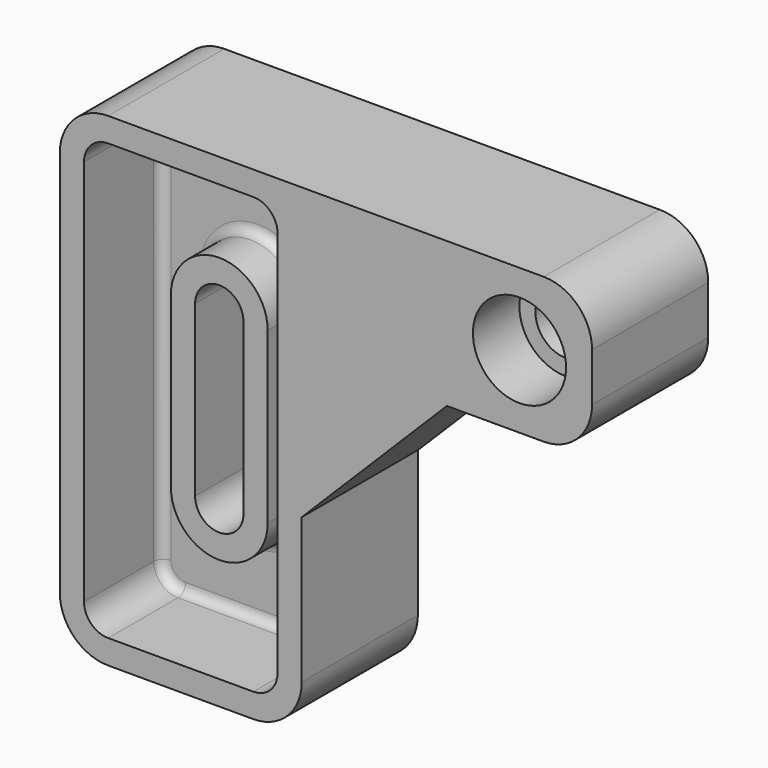
from build123d import *

# Parameters (mm, degrees)
F1_DEPTH       = 30
F3_D           = 12.6
F3_CBORE_D     = 19.25
F3_CBORE_DEPTH = 12
F5_DEPTH       = 20
F7_DEPTH       = 10
F9_DEPTH       = 51.5
F10_R          = 2


with BuildPart() as f1:
    # F0 (on Front) → F1 (new body)
    with BuildSketch(Plane.XZ):
        with BuildLine():
            Line((0, -30), (0, 0))
            Line((0, 0), (30, 30))
            Line((30, 30), (50, 30))
            ThreePointArc((50, 30), (57.0710678119, 32.9289321881), (60, 40))
            Line((60, 40), (60, 50))
            ThreePointArc((60, 50), (57.0710678119, 57.0710678119), (50, 60))
            Line((50, 60), (-40, 60))
            ThreePointArc((-40, 60), (-47.0710678119, 57.0710678119), (-50, 50))
            Line((-50, 50), (-50, -30))
            ThreePointArc((-50, -30), (-47.0710678119, -37.0710678119), (-40, -40))
            Line((-40, -40), (-10, -40))
            ThreePointArc((-10, -40), (-2.9289321881, -37.0710678119), (0, -30))
        make_face()
    extrude(amount=F1_DEPTH)

    # F3 (through all)
    with Locations(Plane.XZ.offset(30)):
        with Locations((45, 45)):
            CounterBoreHole(F3_D / 2, F3_CBORE_D / 2, F3_CBORE_DEPTH)

    # F4 (on face) → F5 (cut)
    with BuildSketch(Plane.XZ.offset(30)):
        with BuildLine():
            Line((-5.0000011261, -30), (-5.0000011261, 0))
            Line((-5.0000011261, 0), (-5.0000011261, 50))
            ThreePointArc((-5.0000011261, 50), (-6.4644668903, 53.5355331097), (-10, 54.9999988739))
            Line((-10, 54.9999988739), (-40, 54.9999988739))
            ThreePointArc((-40, 54.9999988739), (-43.5355331097, 53.5355331097), (-44.9999988739, 50))
            Line((-44.9999988739, 50), (-44.9999988739, -30))
            ThreePointArc((-44.9999988739, -30), (-43.5355331097, -33.5355331097), (-40, -34.9999988739))
            Line((-40, -34.9999988739), (-10, -34.9999988739))
            ThreePointArc((-10, -34.9999988739), (-6.4644668903, -33.5355331097), (-5.0000011261, -30))
        make_face()
    extrude(amount=-F5_DEPTH, mode=Mode.SUBTRACT)

    # F6 (on face) → F7 (join)
    with BuildSketch(Plane.XZ.offset(10)):
        with BuildLine():
            ThreePointArc((-35.0377668691, -10), (-25.0377668691, -20), (-15.0377668691, -10))
            Line((-15.0377668691, -10), (-15.0377668691, 25))
            ThreePointArc((-15.0377668691, 25), (-25.0377668691, 35), (-35.0377668691, 25))
            Line((-35.0377668691, 25), (-35.0377668691, -10))
        make_face()
    extrude(amount=F7_DEPTH)

    # F8 (on face) → F9 (cut, symmetric)
    with BuildSketch(Plane.XZ.offset(20)):
        with BuildLine():
            ThreePointArc((-30.0377668691, -10), (-25.0377668691, -15), (-20.0377668691, -10))
            Line((-20.0377668691, -10), (-20.0377668691, 25))
            ThreePointArc((-20.0377668691, 25), (-25.0377668691, 30), (-30.0377668691, 25))
            Line((-30.0377668691, 25), (-30.0377668691, -10))
        make_face()
    extrude(amount=F9_DEPTH, both=True, mode=Mode.SUBTRACT)

    # F10
    f10_edges = [f1.edges().sort_by_distance(p)[0] for p in [
        (-5.000001, -10, 10),
        (-6.464467, -10, -33.535533),
        (-6.464467, -10, 53.535533),
        (-25, -10, -34.999999),
        (-25, -10, 54.999999),
        (-43.535533, -10, -33.535533),
        (-43.535533, -10, 53.535533),
        (-44.999999, -10, 10),
        (-35.037767, -10, 7.5),
        (-25.037767, -10, -20),
        (-15.037767, -10, 7.5),
        (-25.037767, -10, 35),
    ]]
    fillet(f10_edges, radius=F10_R)


solid = f1.part
